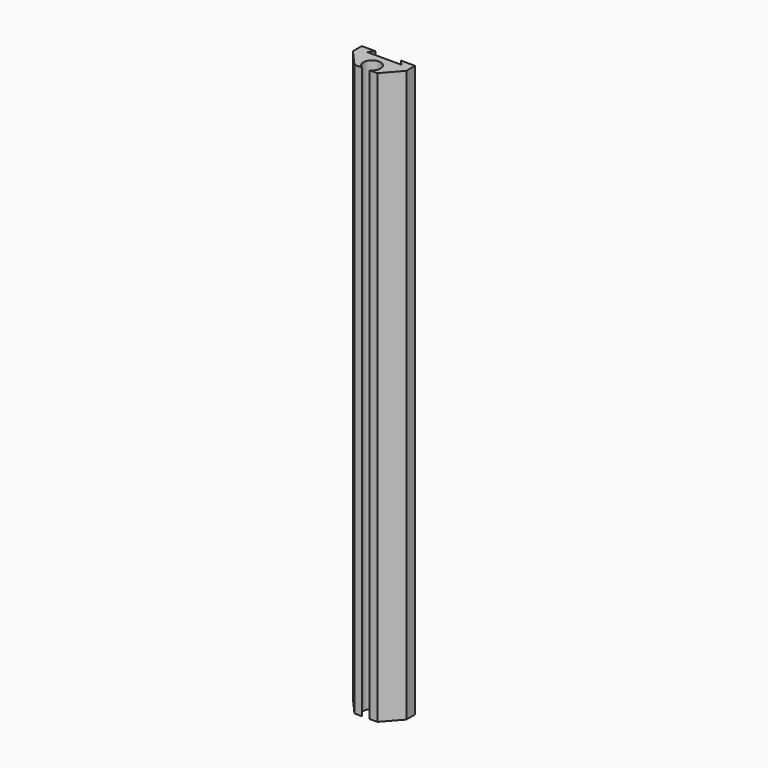
from build123d import *

# Parameters (mm, degrees)
F1_DEPTH = 150


with BuildPart() as f1:
    # F0 (on Top) → F1 (new body)
    with BuildSketch(Plane.XY):
        Polygon((7, -5.088528), (7, -3.588528), (4.5, -3.588528), (-4.5, -3.588528), (-7, -3.588528), (-7, -5.088528), align=None)
        Polygon((4.5, -3.588528), (7, -3.588528), (7, -2.205549), (3.339543, -2.205549), align=None)
        with BuildLine():
            Line((3, -9.604092), (7, -5.088528))
            Line((7, -5.088528), (-7, -5.088528))
            Line((-7, -5.088528), (-3, -9.604092))
            Line((-3, -9.604092), (-1, -9.604092))
            ThreePointArc((-1, -9.604092), (0, -5.338528), (1, -9.604092))
            Line((1, -9.604092), (3, -9.604092))
        make_face()
        Polygon((-7, -3.588528), (-4.5, -3.588528), (-3.339543, -2.205549), (-7, -2.205549), align=None)
    extrude(amount=F1_DEPTH)


solid = f1.part
